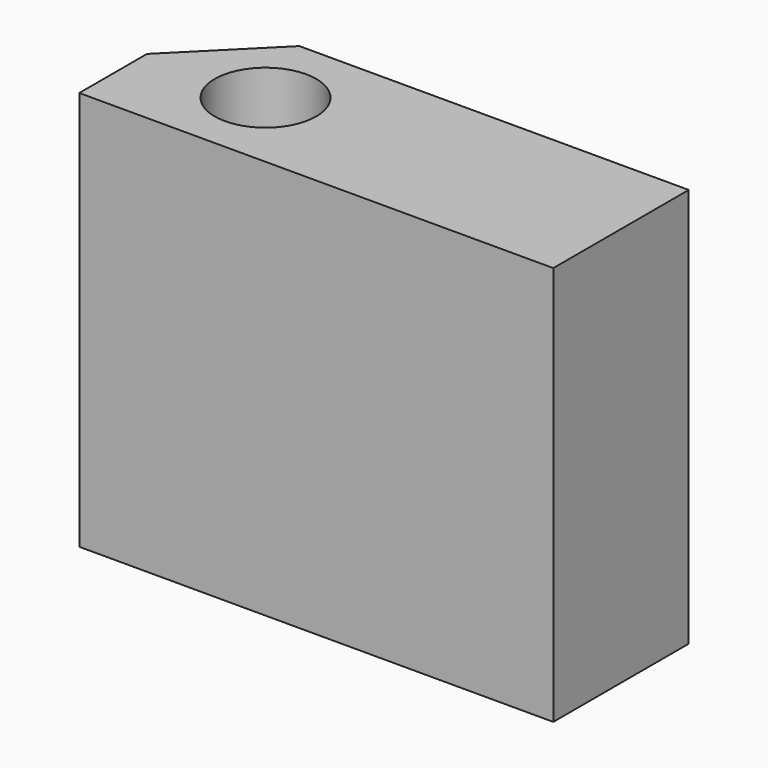
from build123d import *

# Parameters (mm, degrees)
F0_R     = 1.5
F1_DEPTH = 11.8


with BuildPart() as f1:
    # F0 (on Top) → F1 (new body)
    with BuildSketch(Plane.XY):
        Polygon((0, 2.5), (0, 0), (14, 0), (14, 5), (2.5, 5), align=None)
        with Locations((3.5, 2.5)):
            Circle(F0_R, mode=Mode.SUBTRACT)
    extrude(amount=F1_DEPTH)


solid = f1.part
